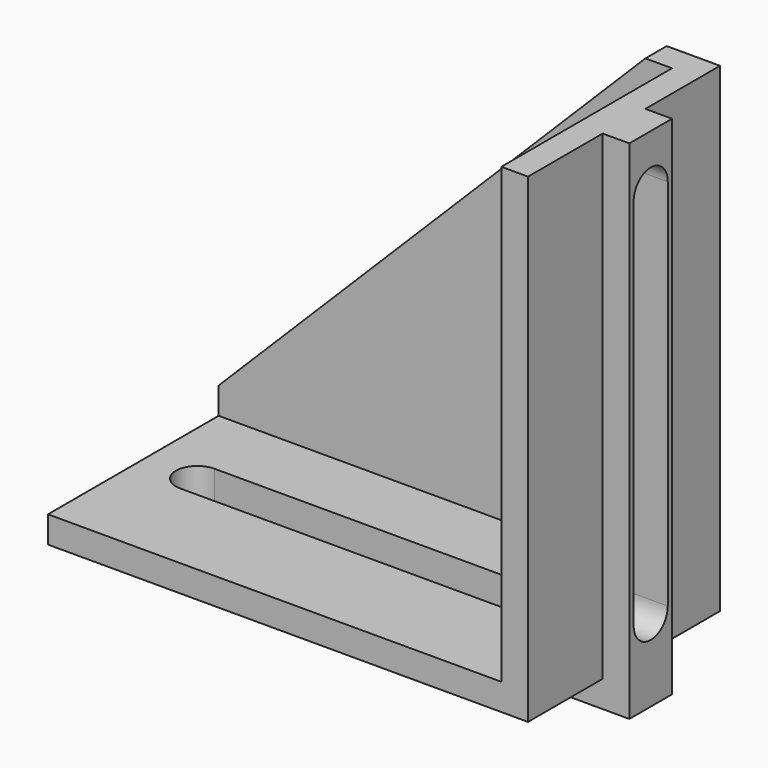
from build123d import *

# Parameters (mm, degrees)
F1_DEPTH  = 45
F3_DEPTH  = 40
F4_W      = 90
F4_H      = 10
F5_DEPTH  = 5
F6_W      = 10
F6_H      = 95
F7_DEPTH  = 5
F9_DEPTH  = 10
F11_DEPTH = 10


with BuildPart() as f1:
    # F0 (on Front) → F1 (new body)
    with BuildSketch(Plane.XZ):
        Polygon((-90, 10), (-90, 0), (0, 0), (0, 90), (-10, 90), align=None)
    extrude(amount=F1_DEPTH)

    # F2 (on face) → F3 (cut)
    with BuildSketch(Plane.XZ.offset(45)):
        Polygon((-10, 90), (-90, 10), (-90, 5), (-5, 5), (-5, 90), align=None)
    extrude(amount=-F3_DEPTH, mode=Mode.SUBTRACT)

    # F4 (on face) → F5 (join)
    with BuildSketch(Plane(origin=(0, 0, 0), x_dir=(1, 0, 0), z_dir=(0, 0, -1))):
        with Locations((-45, 22.5)):
            Rectangle(F4_W, F4_H)
    extrude(amount=F5_DEPTH)

    # F6 (on face) → F7 (join)
    with BuildSketch(Plane.YZ):
        with Locations((-22.5, 42.5)):
            Rectangle(F6_W, F6_H)
    extrude(amount=F7_DEPTH)

    # F8 (on face) → F9 (cut, through all)
    with BuildSketch(Plane.YZ.offset(5)):
        with BuildLine():
            ThreePointArc((-18.5, 80), (-22.5, 84), (-26.5, 80))
            Line((-26.5, 80), (-26.5, 9.960906))
            ThreePointArc((-26.5, 9.960906), (-22.5, 5.999809), (-18.5, 9.960906))
            Line((-18.5, 9.960906), (-18.5, 80))
        make_face()
    extrude(amount=-F9_DEPTH, mode=Mode.SUBTRACT)

    # F10 (on face) → F11 (cut, through all)
    with BuildSketch(Plane(origin=(0, 0, -5), x_dir=(1, 0, 0), z_dir=(0, 0, -1))):
        with BuildLine():
            ThreePointArc((-80, 26.5), (-84, 22.5), (-80, 18.5))
            Line((-80, 18.5), (-10, 18.5))
            ThreePointArc((-10, 18.5), (-6, 22.5), (-10, 26.5))
            Line((-10, 26.5), (-80, 26.5))
        make_face()
    extrude(amount=-F11_DEPTH, mode=Mode.SUBTRACT)


solid = f1.part
